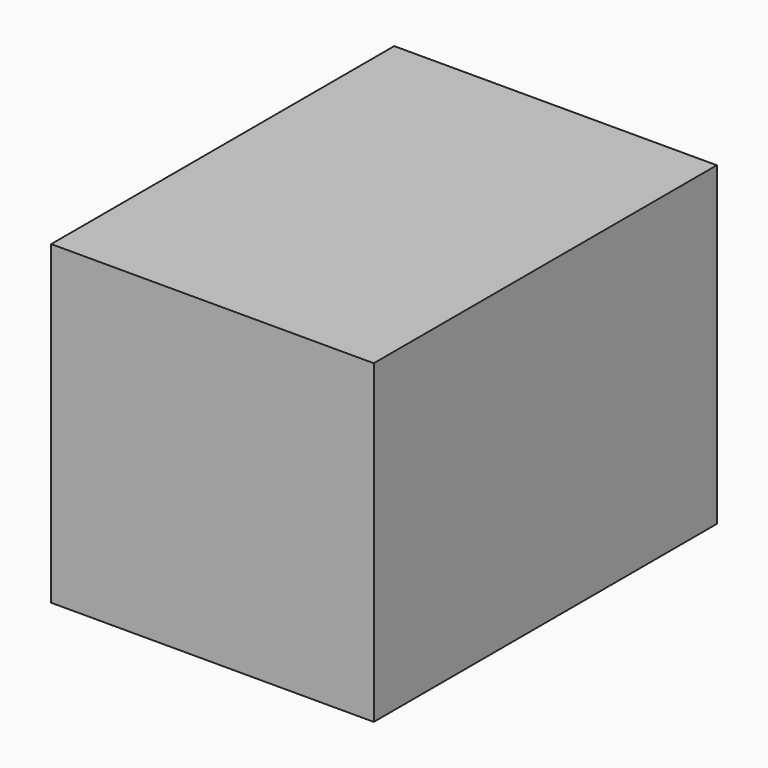
from build123d import *

# Parameters (mm, degrees)
F0_W     = 75.23375
F0_H     = 73.643394
F1_DEPTH = 100
F2_R     = 26.794251
F2_R_2   = 13.258237
F3_DEPTH = 75
F4_R     = 26.323193
F5_DEPTH = 50


with BuildPart() as f1:
    # F0 (on Front) → F1 (new body)
    with BuildSketch(Plane.XZ):
        with Locations((-37.616875, 36.821697)):
            Rectangle(F0_W, F0_H)
    extrude(amount=F1_DEPTH)

    # F2 (on face) → F3 (join)
    with BuildSketch(Plane.XZ.offset(100)):
        with Locations((-41.986048, 33.408221)):
            Circle(F2_R)
        with Locations((-41.986048, 33.408221)):
            Circle(F2_R_2, mode=Mode.SUBTRACT)
    extrude(amount=-F3_DEPTH)

    # F4 (on face) → F5 (join)
    with BuildSketch(Plane.XZ.offset(100)):
        with Locations((-41.341685, 35.241015)):
            Circle(F4_R)
    extrude(amount=-F5_DEPTH)


solid = f1.part
